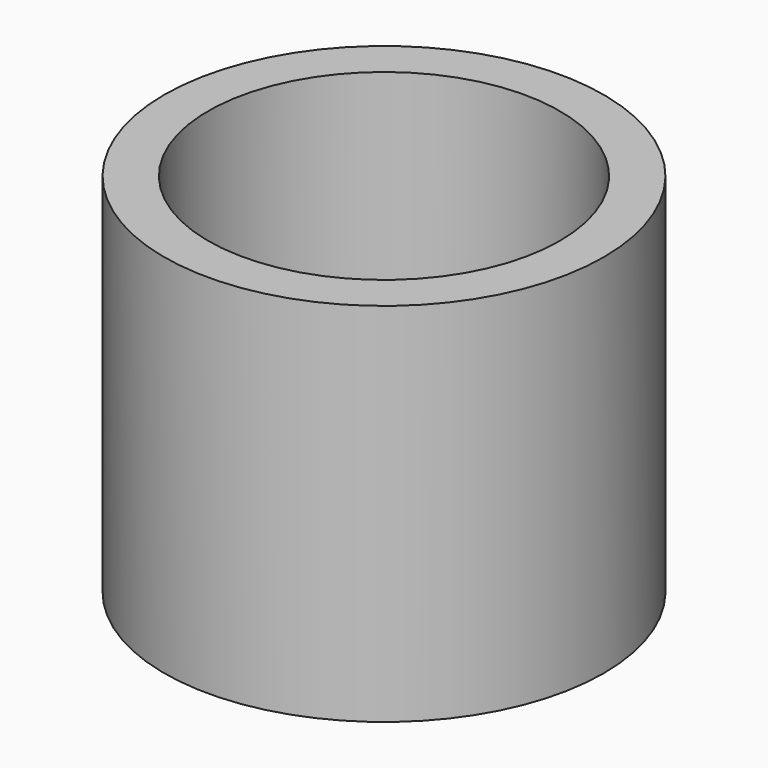
from build123d import *

# Parameters (mm, degrees)
SKETCH_R      = 12
SKETCH_R_2    = 9.6
EXTRUDE_DEPTH = 20


with BuildPart() as part:
    # Sketch → Extrude (new body)
    with BuildSketch(Plane.XY):
        Circle(SKETCH_R)
        Circle(SKETCH_R_2, mode=Mode.SUBTRACT)
    extrude(amount=EXTRUDE_DEPTH)


solid = part.part
